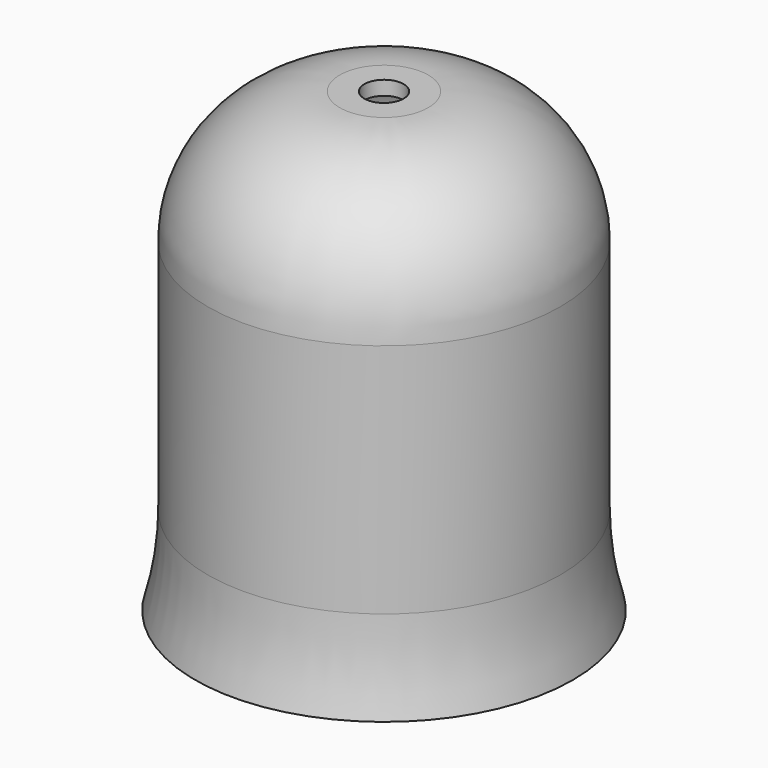
from build123d import *

# Parameters (mm, degrees)
F2_R     = 2.116667
F3_DEPTH = 1.524


with BuildPart() as f1:
    # F0 (on Front) → F1 (revolve)
    with BuildSketch(Plane.XZ):
        with BuildLine():
            Line((17.4625, 39.624), (17.4625, 38.1))
            Line((17.4625, 38.1), (22.225, 38.1))
            ThreePointArc((22.225, 38.1), (31.205256, 34.380256), (34.925, 25.4))
            Line((34.925, 25.4), (34.925, 0))
            ThreePointArc((34.925, 0), (35.654763, -4.972196), (37.7825, -9.525))
            ThreePointArc((37.7825, -9.525), (36.783993, -4.808946), (36.449, 0))
            Line((36.449, 0), (36.449, 25.4))
            ThreePointArc((36.449, 25.4), (32.282887, 35.457887), (22.225, 39.624))
            Line((22.225, 39.624), (17.4625, 39.624))
        make_face()
    revolve(axis=Axis((17.4625, 0, 38.862), (0, 0, 1)))

    # F2 (on face) → F3 (cut, through all)
    with BuildSketch(Plane.XY.offset(39.624)):
        with Locations((17.4625, 0)):
            Circle(F2_R)
    extrude(amount=-F3_DEPTH, mode=Mode.SUBTRACT)


solid = f1.part
